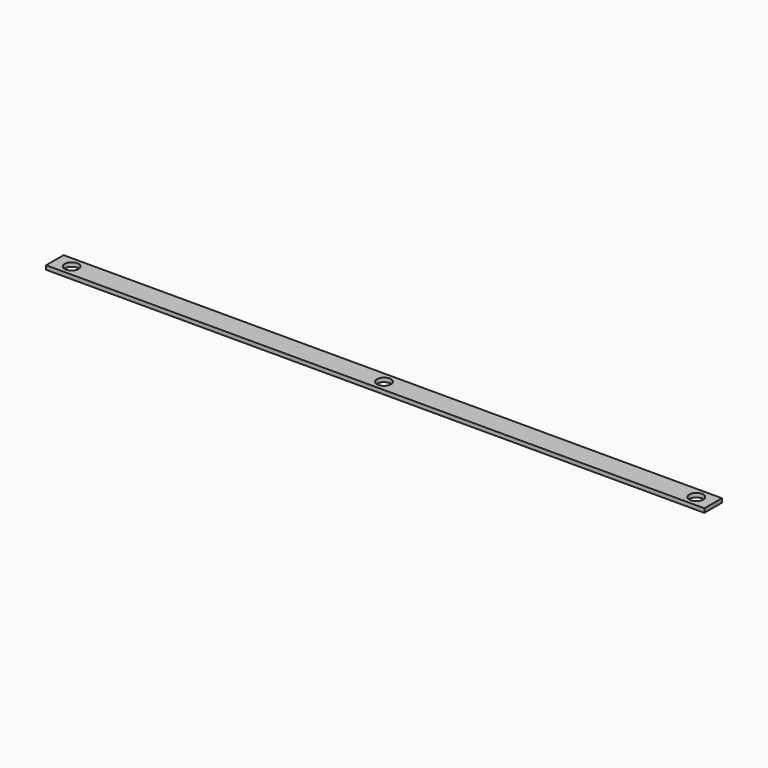
from build123d import *

# Parameters (mm, degrees)
F0_R     = 1.775
F1_DEPTH = 1.02


with BuildPart() as f1:
    # F0 (on Top) → F1 (new body)
    with BuildSketch(Plane.XY):
        Polygon((85.146899, 23.607349), (-81.703096, 23.568956), (-81.703096, 18.018956), (85.146899, 18.057349), align=None)
        with Locations((-77.428096, 20.79494)):
            Circle(F0_R, mode=Mode.SUBTRACT)
        with Locations((1.721902, 20.813153)):
            Circle(F0_R, mode=Mode.SUBTRACT)
        with Locations((80.871899, 20.831365)):
            Circle(F0_R, mode=Mode.SUBTRACT)
    extrude(amount=F1_DEPTH)


solid = f1.part
